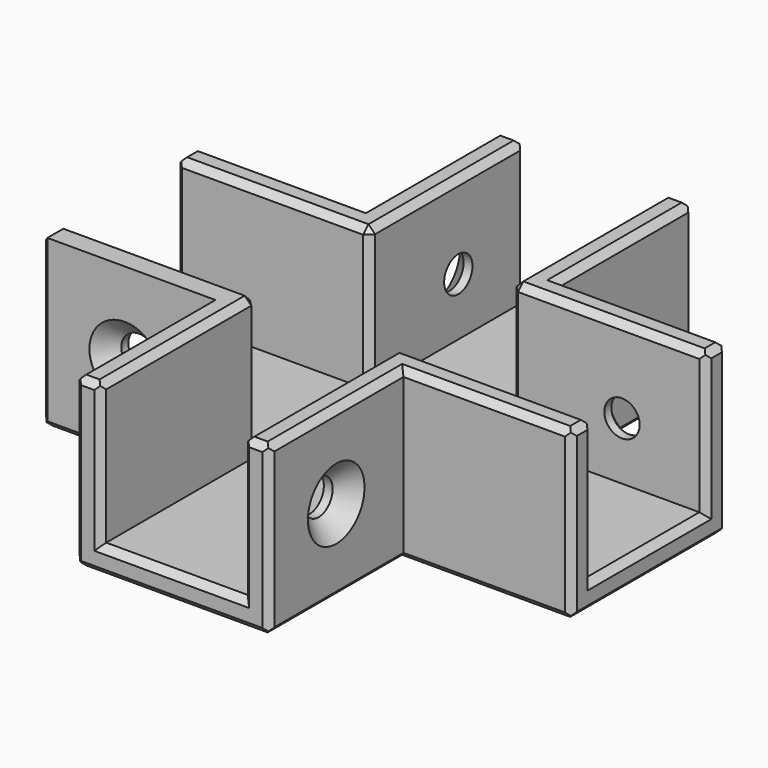
from build123d import *

# Parameters (mm, degrees)
F0_W            = 22
F0_H            = 19
F1_DEPTH        = 3
F2_W            = 19
F2_H            = 3
F2_W_2          = 3
F2_H_2          = 19
F3_DEPTH        = 16
F5_D            = 4
F5_DEPTH        = 12
F5_CSINK_D      = 8
F5_CSINK_ANGLE  = 90
F5_TIP          = 1.2017212381
F7_D            = 4
F7_DEPTH        = 12
F7_CSINK_D      = 8
F7_CSINK_ANGLE  = 90
F7_TIP          = 1.2017212381
F9_D            = 4
F9_DEPTH        = 12
F9_CSINK_D      = 8
F9_CSINK_ANGLE  = 90
F9_TIP          = 1.2017212381
F11_D           = 4
F11_DEPTH       = 12
F11_CSINK_D     = 8
F11_CSINK_ANGLE = 90
F11_TIP         = 1.2017212381
F12_SIZE        = 0.75
F13_SIZE        = 0.75
F14_SIZE        = 0.75


with BuildPart() as f1:
    # F0 (on Top) → F1 (new body)
    with BuildSketch(Plane.XY):
        with Locations((30, -9.5)):
            Rectangle(F0_W, F0_H)
        with Locations((30, 31.5)):
            Rectangle(F0_W, F0_H)
        Polygon((0, 22), (0, 0), (19, 0), (41, 0), (60, 0), (60, 22), (41, 22), (19, 22), align=None)
    extrude(amount=F1_DEPTH)

    # F2 (on face) → F3 (join)
    with BuildSketch(Plane.XY.offset(3)):
        with Locations((9.5, 20.5)):
            Rectangle(F2_W, F2_H)
        Polygon((19, 41), (19, 22), (19, 19), (22, 19), (22, 41), align=None)
        with Locations((9.5, 1.5)):
            Rectangle(F2_W, F2_H)
        Polygon((19, 3), (19, 0), (19, -19), (22, -19), (22, 3), align=None)
        Polygon((60, 22), (41, 22), (38, 22), (38, 19), (60, 19), align=None)
        with Locations((39.5, 31.5)):
            Rectangle(F2_W_2, F2_H_2)
        with Locations((39.5, -9.5)):
            Rectangle(F2_W_2, F2_H_2)
        Polygon((38, 0), (41, 0), (60, 0), (60, 3), (38, 3), align=None)
    extrude(amount=F3_DEPTH)

    # F5
    with Locations(Plane.XZ):
        with Locations((9.5, 9.5)):
            CounterSinkHole(F5_D / 2, F5_CSINK_D / 2, depth=F5_DEPTH, counter_sink_angle=F5_CSINK_ANGLE)
            with Locations((0, 0, -(F5_DEPTH + F5_TIP / 2))):  # 118° drill point
                Cone(0, F5_D / 2, F5_TIP, mode=Mode.SUBTRACT)

    # F7
    with Locations(Plane.YZ.offset(41)):
        with Locations((-9.5, 9.5)):
            CounterSinkHole(F7_D / 2, F7_CSINK_D / 2, depth=F7_DEPTH, counter_sink_angle=F7_CSINK_ANGLE)
            with Locations((0, 0, -(F7_DEPTH + F7_TIP / 2))):  # 118° drill point
                Cone(0, F7_D / 2, F7_TIP, mode=Mode.SUBTRACT)

    # F9
    with Locations(Plane(origin=(0, 22, 0), x_dir=(-1, 0, 0), z_dir=(0, 1, 0))):
        with Locations((-50.5, 9.5)):
            CounterSinkHole(F9_D / 2, F9_CSINK_D / 2, depth=F9_DEPTH, counter_sink_angle=F9_CSINK_ANGLE)
            with Locations((0, 0, -(F9_DEPTH + F9_TIP / 2))):  # 118° drill point
                Cone(0, F9_D / 2, F9_TIP, mode=Mode.SUBTRACT)

    # F11
    with Locations(Plane(origin=(19, 0, 0), x_dir=(0, -1, 0), z_dir=(-1, 0, 0))):
        with Locations((-31.5, 9.5)):
            CounterSinkHole(F11_D / 2, F11_CSINK_D / 2, depth=F11_DEPTH, counter_sink_angle=F11_CSINK_ANGLE)
            with Locations((0, 0, -(F11_DEPTH + F11_TIP / 2))):  # 118° drill point
                Cone(0, F11_D / 2, F11_TIP, mode=Mode.SUBTRACT)

    # F12
    f12_edges = [f1.edges().sort_by_distance(p)[0] for p in [
        (19, -19, 9.5),
        (20.5, -19, 19),
        (22, -19, 11),
        (30, -19, 3),
        (38, -19, 11),
        (39.5, -19, 19),
        (41, -19, 9.5),
        (30, -19, 0),
        (60, 0, 9.5),
        (60, 1.5, 19),
        (60, 3, 11),
        (60, 11, 3),
        (60, 19, 11),
        (60, 20.5, 19),
        (60, 22, 9.5),
        (60, 11, 0),
        (41, 41, 9.5),
        (39.5, 41, 19),
        (38, 41, 11),
        (30, 41, 3),
        (22, 41, 11),
        (20.5, 41, 19),
        (19, 41, 9.5),
        (30, 41, 0),
        (0, 22, 9.5),
        (0, 20.5, 19),
        (0, 19, 11),
        (0, 11, 3),
        (0, 3, 11),
        (0, 1.5, 19),
        (0, 0, 9.5),
        (0, 11, 0),
    ]]
    chamfer(f12_edges, length=F12_SIZE)

    # F13
    f13_edges = [f1.edges().sort_by_distance(p)[0] for p in [
        (9.875, 22, 0),
        (19, 31.125, 0),
        (41, 31.125, 0),
        (50.125, 22, 0),
        (50.125, 0, 0),
        (41, -9.125, 0),
        (19, -9.125, 0),
        (9.875, 0, 0),
    ]]
    chamfer(f13_edges, length=F13_SIZE)

    # F14
    f14_edges = [f1.edges().sort_by_distance(p)[0] for p in [
        (50.125, 0, 19),
        (41, -9.125, 19),
        (38, -7.625, 19),
        (48.625, 3, 19),
        (38, 3, 11),
        (22, -7.625, 19),
        (19, -9.125, 19),
        (11.375, 3, 19),
        (22, 3, 11),
        (11.375, 19, 19),
        (9.875, 22, 19),
        (19, 31.125, 19),
        (22, 29.625, 19),
        (22, 19, 11),
        (48.625, 19, 19),
        (50.125, 22, 19),
        (41, 31.125, 19),
        (38, 29.625, 19),
        (38, 19, 11),
    ]]
    chamfer(f14_edges, length=F14_SIZE)


solid = f1.part
